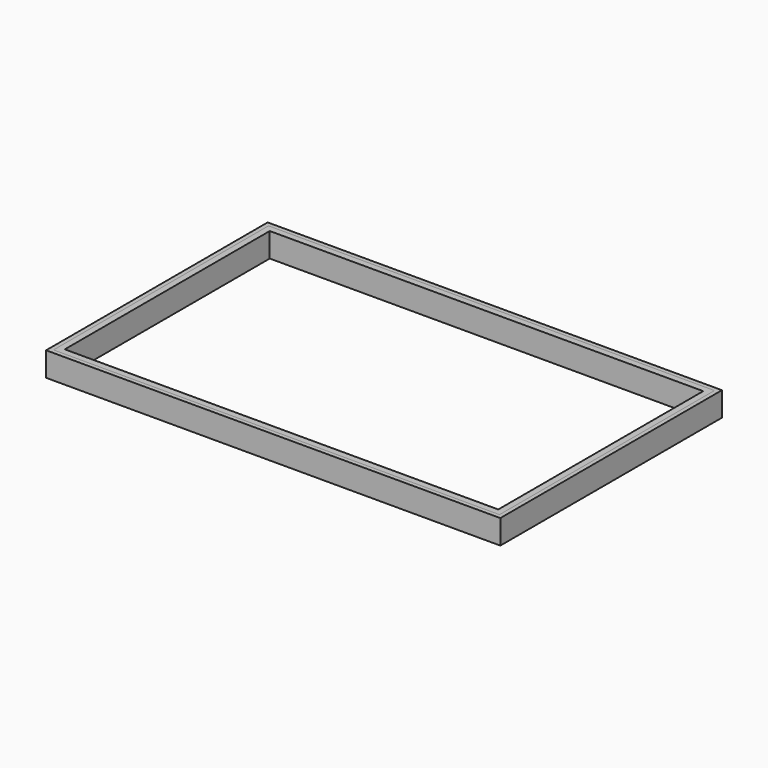
from build123d import *

# Parameters (mm, degrees)
F0_W     = 1252
F0_H     = 18
F1_DEPTH = 70
F0_W_2   = 12
F0_H_2   = 776
F2_DEPTH = 70


with BuildPart() as f1:
    # F0 (on Top) → F1 (new body)
    with BuildSketch(Plane.XY):
        with Locations((0, 379)):
            Rectangle(F0_W, F0_H)
        with Locations((0, -379)):
            Rectangle(F0_W, F0_H)
        Polygon((-644, 388), (-644, -388), (-626, -388), (-626, -370), (-626, 370), (-626, 388), align=None)
        Polygon((626, -388), (644, -388), (644, 388), (626, 388), (626, 370), (626, -370), align=None)
    extrude(amount=-F1_DEPTH)


with BuildPart() as f2:
    # F0 (on Top) → F2 (new body)
    with BuildSketch(Plane.XY):
        Polygon((644, 388), (656, 388), (656, 400), (-656, 400), (-656, 388), (-644, 388), (-626, 388), (626, 388), align=None)
        with Locations((-650, 0)):
            Rectangle(F0_W_2, F0_H_2)
        Polygon((-656, -400), (656, -400), (656, -388), (644, -388), (626, -388), (-626, -388), (-644, -388), (-656, -388), align=None)
        with Locations((650, 0)):
            Rectangle(F0_W_2, F0_H_2)
    extrude(amount=-F2_DEPTH)


solid = Compound([f1.part, f2.part])
